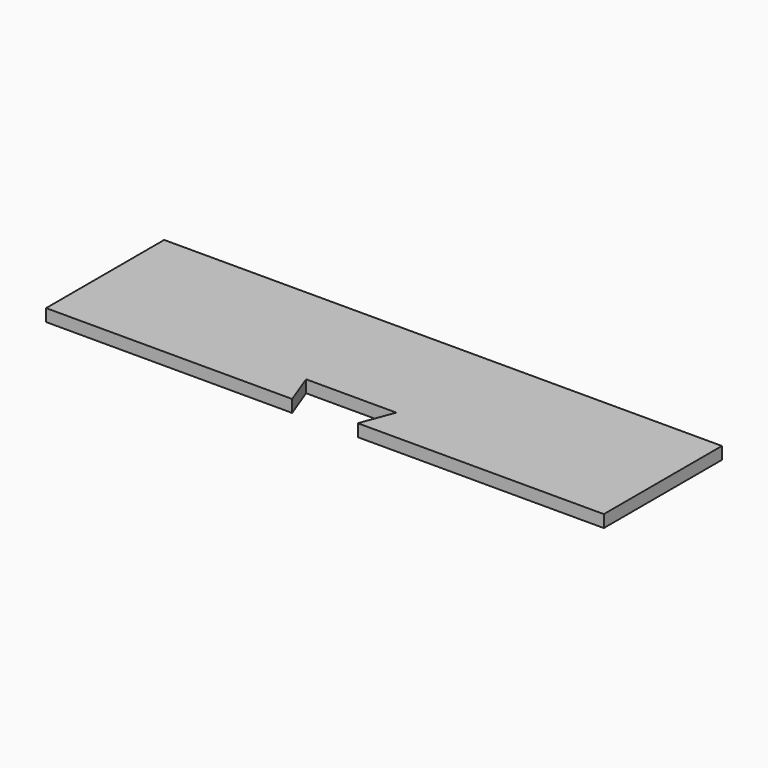
from build123d import *

# Parameters (mm, degrees)
F0_W     = 863.6
F0_H     = 228.6
F1_DEPTH = 19.05
F3_DEPTH = 19.051


with BuildPart() as f1:
    # F0 (on Top) → F1 (new body)
    with BuildSketch(Plane.XY):
        with Locations((0, -114.3)):
            Rectangle(F0_W, F0_H)
    extrude(amount=F1_DEPTH)

    # F2 (on face) → F3 (cut, through all)
    with BuildSketch(Plane.XY.offset(19.05)):
        Polygon((-69.85, -177.8), (-50.8, -228.6), (50.8, -228.6), (69.85, -177.8), align=None)
    extrude(amount=-F3_DEPTH, mode=Mode.SUBTRACT)


solid = f1.part
